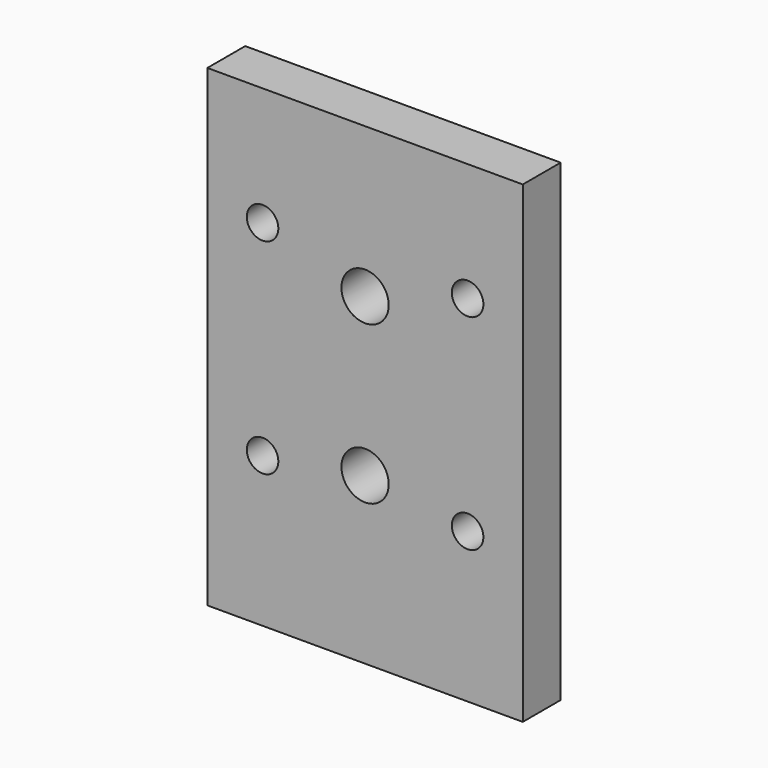
from build123d import *

# Parameters (mm, degrees)
CYLINDER006_R          = 3
CYLINDER006_DEPTH      = 10
CYLINDER006_ROLL_ANGLE = 90
ARRAY006_Z_COUNT       = 2
ARRAY006_Z_PITCH       = 20
CYLINDER005_R          = 2
CYLINDER005_DEPTH      = 6
CYLINDER005_ROLL_ANGLE = 90
ARRAY005_X_COUNT       = 2
ARRAY005_X_PITCH       = 26
ARRAY005_Z_COUNT       = 2
ARRAY005_Z_PITCH       = 26
BOX013_W               = 40
BOX013_H               = 60
BOX013_DEPTH           = 6
BOX013_ROLL_ANGLE      = 90


with BuildPart() as array006:
    # Cylinder006 → Cylinder006 (new body)
    with BuildSketch(Plane.XY):
        Circle(CYLINDER006_R)
    extrude(amount=CYLINDER006_DEPTH)


with BuildPart() as array006_1:
    # Cylinder006 roll: moved
    add(array006.part.rotate(Axis((0, 0, 0), (1, 0, 0)), CYLINDER006_ROLL_ANGLE))


with BuildPart() as array006_2:
    # Cylinder006 placement: moved
    add(array006_1.part.moved(Location((20, 0, 21))))

    # Array006 Z: Array006 ×2


with BuildPart() as array006_3:
    add(array006_2.part)
    with Locations(*[(0, 0, i * ARRAY006_Z_PITCH) for i in range(1, ARRAY006_Z_COUNT)]):
        add(array006_2.part)


with BuildPart() as array005:
    # Cylinder005 → Cylinder005 (new body)
    with BuildSketch(Plane.XY):
        Circle(CYLINDER005_R)
    extrude(amount=CYLINDER005_DEPTH)


with BuildPart() as array005_1:
    # Cylinder005 roll: moved
    add(array005.part.rotate(Axis((0, 0, 0), (1, 0, 0)), CYLINDER005_ROLL_ANGLE))


with BuildPart() as array005_2:
    # Cylinder005 placement: moved
    add(array005_1.part.moved(Location((7, 0, 19))))

    # Array005 X: Array005 ×2


with BuildPart() as array005_3:
    add(array005_2.part)
    with Locations(*[(i * ARRAY005_X_PITCH, 0, 0) for i in range(1, ARRAY005_X_COUNT)]):
        add(array005_2.part)

    # Array005 Z: Array005 ×2


with BuildPart() as array005_4:
    add(array005_3.part)
    with Locations(*[(0, 0, i * ARRAY005_Z_PITCH) for i in range(1, ARRAY005_Z_COUNT)]):
        add(array005_3.part)


with BuildPart() as obj1:
    # Box013 → Box013 (new body)
    with BuildSketch(Plane.XY):
        with Locations((20, 30)):
            Rectangle(BOX013_W, BOX013_H)
    extrude(amount=BOX013_DEPTH)


with BuildPart() as obj1_1:
    # Box013 roll: moved
    add(obj1.part.rotate(Axis((0, 0, 0), (1, 0, 0)), BOX013_ROLL_ANGLE))


with BuildPart() as obj1_2:
    # Box013 placement: moved
    add(obj1_1.part)

    # Cut006: cut Array005
    add(array005_4.part, mode=Mode.SUBTRACT)

    # Cut007: cut Array006
    add(array006_3.part, mode=Mode.SUBTRACT)


with BuildPart() as obj1_3:
    # Cut007 placement: moved
    add(obj1_2.part.moved(Location((2, -120, -19))))


solid = obj1_3.part
